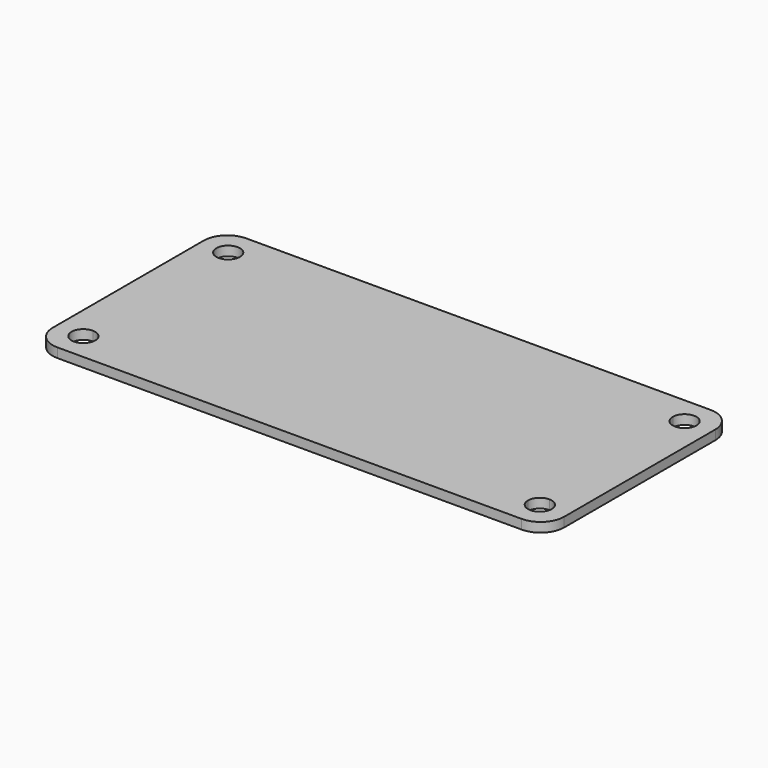
from build123d import *

# Parameters (mm, degrees)
F1_DEPTH = 1.2


with BuildPart() as f1:
    # F0 (on Top) → F1 (new body)
    with BuildSketch(Plane.XY):
        with BuildLine():
            Line((-29.5, -15), (29.5, -15))
            ThreePointArc((29.5, -15), (31.6213203436, -14.1213203436), (32.5, -12))
            Line((32.5, -12), (32.5, 12))
            ThreePointArc((32.5, 12), (31.6213203436, 14.1213203436), (29.5, 15))
            Line((29.5, 15), (-29.5, 15))
            ThreePointArc((-29.5, 15), (-31.6213203436, 14.1213203436), (-32.5, 12))
            Line((-32.5, 12), (-32.5, -12))
            ThreePointArc((-32.5, -12), (-31.6213203436, -14.1213203436), (-29.5, -15))
        make_face()
        with BuildLine():
            Line((27.5, -11.5), (-27.5, -11.5))
            ThreePointArc((-27.5, -11.5), (-30.0606601718, -12.5606601718), (-29, -10))
            Line((-29, -10), (-29, 10))
            ThreePointArc((-29, 10), (-30.0606601718, 12.5606601718), (-27.5, 11.5))
            Line((-27.5, 11.5), (27.5, 11.5))
            ThreePointArc((27.5, 11.5), (29, 13), (30.5, 11.5))
            ThreePointArc((30.5, 11.5), (30.0606601718, 10.4393398282), (29, 10))
            Line((29, 10), (29, -10))
            ThreePointArc((29, -10), (30.0606601718, -10.4393398282), (30.5, -11.5))
            ThreePointArc((30.5, -11.5), (29, -13), (27.5, -11.5))
        make_face(mode=Mode.SUBTRACT)
        with BuildLine():
            ThreePointArc((-29, -10), (-27.9393398282, -10.4393398282), (-27.5, -11.5))
            Line((-27.5, -11.5), (27.5, -11.5))
            ThreePointArc((27.5, -11.5), (27.9393398282, -10.4393398282), (29, -10))
            Line((29, -10), (29, 10))
            ThreePointArc((29, 10), (27.9393398282, 10.4393398282), (27.5, 11.5))
            Line((27.5, 11.5), (-27.5, 11.5))
            ThreePointArc((-27.5, 11.5), (-27.9393398282, 10.4393398282), (-29, 10))
            Line((-29, 10), (-29, -10))
        make_face()
    extrude(amount=F1_DEPTH)


solid = f1.part
